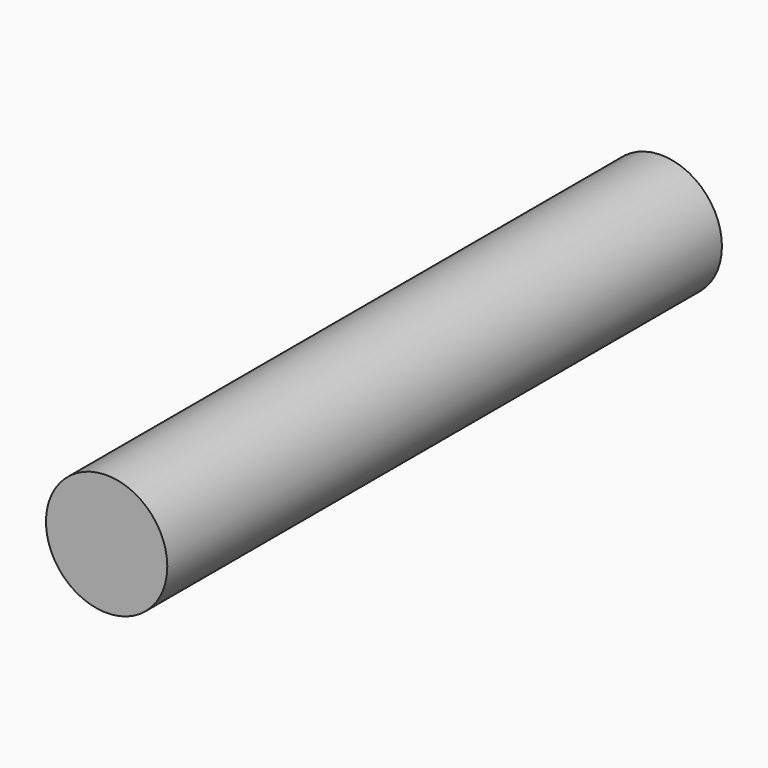
from build123d import *

# Parameters (mm, degrees)
F1_R     = 8.75
F2_DEPTH = 50


with BuildPart() as f2:
    # F1 (on Front) → F2 (new body, symmetric)
    with BuildSketch(Plane.XZ):
        Circle(F1_R)
    extrude(amount=F2_DEPTH, both=True)


with BuildPart() as f3_1:
    # F3: copy of F2
    add(f2.part)


solid = Compound([f2.part, f3_1.part])
